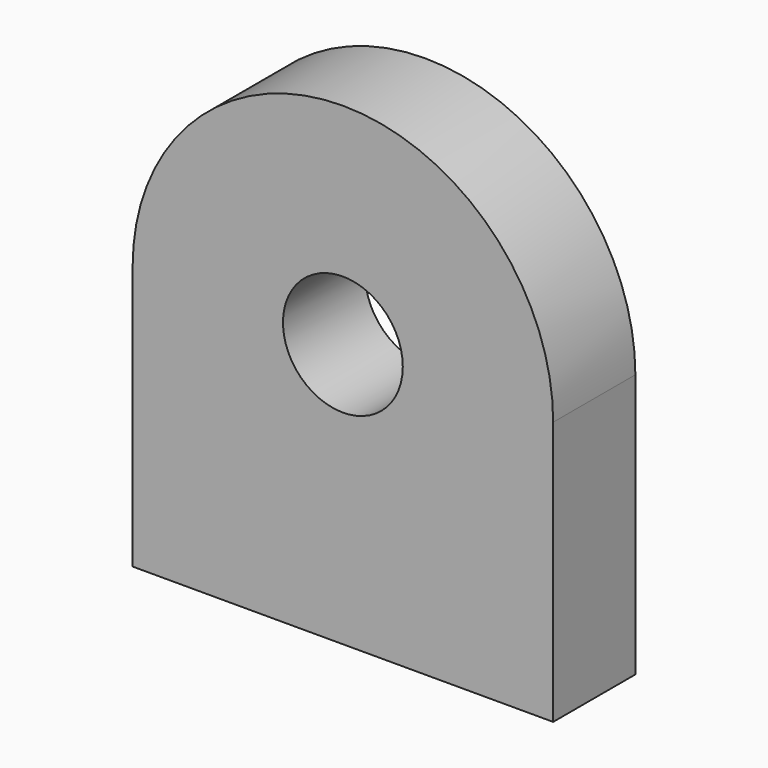
from build123d import *

# Parameters (mm, degrees)
F0_R     = 14.806173
F1_DEPTH = 25.4


with BuildPart() as f1:
    # F0 (on Front) → F1 (new body)
    with BuildSketch(Plane.XZ):
        with BuildLine():
            ThreePointArc((-28.858692, 32.608546), (0, 3.749855), (28.858692, 32.608546))
            ThreePointArc((28.858692, 32.608546), (0, 61.467238), (-28.858692, 32.608546))
        make_face()
        with Locations((0, 32.608546)):
            Circle(F0_R, mode=Mode.SUBTRACT)
        with BuildLine():
            Line((-51.974427, -32.608546), (51.974427, -32.608546))
            Line((51.974427, -32.608546), (51.974427, 32.608546))
            Line((51.974427, 32.608546), (28.858692, 32.608546))
            ThreePointArc((28.858692, 32.608546), (0, 3.749855), (-28.858692, 32.608546))
            Line((-28.858692, 32.608546), (-51.974427, 32.608546))
            Line((-51.974427, 32.608546), (-51.974427, -32.608546))
        make_face()
        with BuildLine():
            Line((28.858692, 32.608546), (51.974427, 32.608546))
            ThreePointArc((51.974427, 32.608546), (0, 84.582973), (-51.974427, 32.608546))
            Line((-51.974427, 32.608546), (-28.858692, 32.608546))
            ThreePointArc((-28.858692, 32.608546), (0, 61.467238), (28.858692, 32.608546))
        make_face()
    extrude(amount=F1_DEPTH)


solid = f1.part
